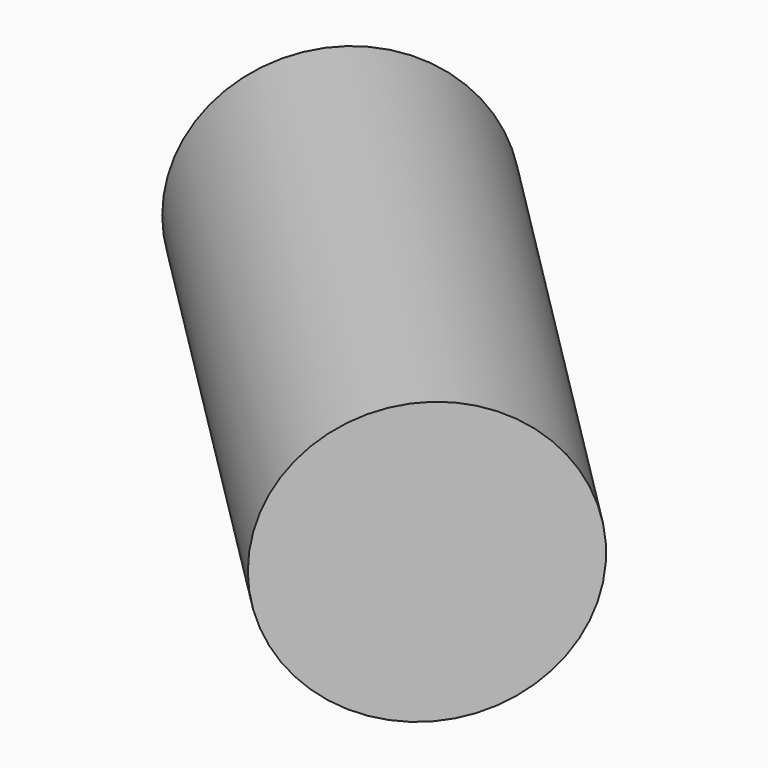
from build123d import *

# Parameters (mm, degrees)
SKETCH096_R             = 11
PAD040_DEPTH            = 47.3
PAD041_DEPTH            = 2
SKETCH098_R             = 1
POCKET052_DEPTH         = 5
SKETCH099_R             = 2
PAD042_DEPTH            = 14
BODY028_PLACEMENT_ANGLE = 225


with BuildPart() as part:
    # Sketch096 → Pad040 (new body)
    with BuildSketch(Plane.XZ):
        Circle(SKETCH096_R)
    extrude(amount=-PAD040_DEPTH)

    # Sketch097 (on Face2 of Pad040) → Pad041 (join)
    with BuildSketch(Plane.XZ):
        with BuildLine():
            Line((-6, 3.605551), (-6, -3.605551))
            ThreePointArc((-6, -3.605551), (0, -7), (6, -3.605551))
            Line((6, -3.605551), (6, 3.605551))
            ThreePointArc((6, 3.605551), (0, 7), (-6, 3.605551))
        make_face()
    extrude(amount=PAD041_DEPTH)

    # Sketch098 (on Face2 of Pad041) → Pocket052 (cut)
    with BuildSketch(Plane.XZ):
        with Locations((-6.363961, 6.363961)):
            Circle(SKETCH098_R)
        with Locations((6.363961, 6.363961)):
            Circle(SKETCH098_R)
        with Locations((6.363961, -6.363961)):
            Circle(SKETCH098_R)
        with Locations((-6.363961, -6.363961)):
            Circle(SKETCH098_R)
    extrude(amount=-POCKET052_DEPTH, mode=Mode.SUBTRACT)

    # Sketch099 (on Face14 of Pocket052) → Pad042 (join)
    with BuildSketch(Plane.XZ.offset(-5)):
        Circle(SKETCH099_R)
    extrude(amount=PAD042_DEPTH)


with BuildPart() as part_1:
    # Body028 placement: moved
    add(part.part.moved(Location((-58.5, 58.5, 17))).rotate(Axis((-58.5, 58.5, 17), (0, 0, 1)), BODY028_PLACEMENT_ANGLE))


solid = part_1.part
